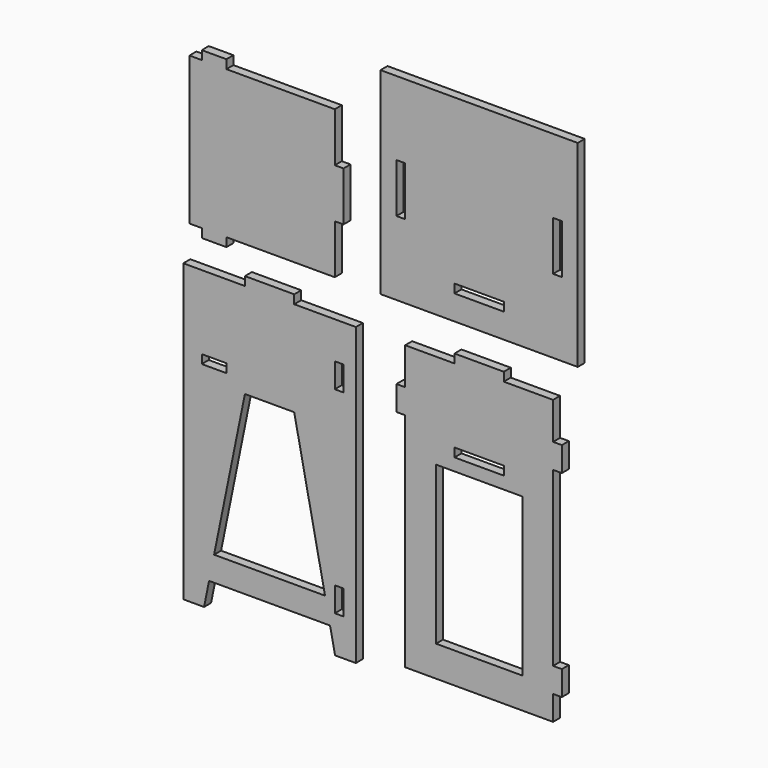
from build123d import *

# Parameters (mm, degrees)
F0_W     = 50.8
F0_H     = 18.034
F0_W_2   = 18.034
F0_H_2   = 101.6
F0_W_3   = 406.4
F0_H_3   = 406.4
F0_W_4   = 101.6
F0_W_5   = 177.8
F0_H_4   = 324.866
F0_H_5   = 50.8
F1_DEPTH = 18.034


with BuildPart() as f1:
    # F0 (on Front) → F1 (new body)
    with BuildSketch(Plane.XZ):
        Polygon((-88.9, 381), (134.366, 381), (134.366, 482.6), (134.366, 584.2), (134.366, 685.8), (-88.9, 685.8), (-139.7, 685.8), (-165.1, 685.8), (-165.1, 381), (-139.7, 381), align=None)
        with Locations((-114.3, 694.817)):
            Rectangle(F0_W, F0_H)
        with Locations((-114.3, 371.983)):
            Rectangle(F0_W, F0_H)
        with Locations((143.383, 533.4)):
            Rectangle(F0_W_2, F0_H_2)
        with Locations((431.8, 584.2)):
            Rectangle(F0_W_3, F0_H_3)
        with Locations((431.8, 440.817)):
            Rectangle(F0_W_4, F0_H, mode=Mode.SUBTRACT)
        with Locations((270.383, 584.2)):
            Rectangle(F0_W_2, F0_H_2, mode=Mode.SUBTRACT)
        with Locations((593.217, 584.2)):
            Rectangle(F0_W_2, F0_H_2, mode=Mode.SUBTRACT)
        Polygon((381, 304.8), (279.4, 304.8), (279.4, 228.6), (279.4, 177.8), (279.4, -177.8), (279.4, -228.6), (279.4, -279.4), (584.2, -279.4), (584.2, -228.6), (584.2, -177.8), (584.2, 177.8), (584.2, 228.6), (584.2, 304.8), (482.6, 304.8), align=None)
        with Locations((431.8, -53.467)):
            Rectangle(F0_W_5, F0_H_4, mode=Mode.SUBTRACT)
        with Locations((431.8, 143.383)):
            Rectangle(F0_W_4, F0_H, mode=Mode.SUBTRACT)
        with Locations((270.383, 203.2)):
            Rectangle(F0_W_2, F0_H_5)
        with Locations((431.8, 313.817)):
            Rectangle(F0_W_4, F0_H)
        with Locations((593.217, 203.2)):
            Rectangle(F0_W_2, F0_H_5)
        with Locations((593.217, -203.2)):
            Rectangle(F0_W_2, F0_H_5)
        Polygon((-50.8, 304.8), (-177.8, 304.8), (-177.8, -304.8), (-134.967209, -304.8), (-124.633605, -254), (-114.3, -254), (114.3, -254), (124.633605, -254), (134.967209, -304.8), (177.8, -304.8), (177.8, 304.8), (50.8, 304.8), align=None)
        Polygon((-114.3, -203.2), (-50.8, 108.966), (50.8, 108.966), (114.3, -203.2), align=None, mode=Mode.SUBTRACT)
        with Locations((143.383, -203.2)):
            Rectangle(F0_W_2, F0_H_5, mode=Mode.SUBTRACT)
        with Locations((-114.3, 143.383)):
            Rectangle(F0_W, F0_H, mode=Mode.SUBTRACT)
        with Locations((143.383, 203.2)):
            Rectangle(F0_W_2, F0_H_5, mode=Mode.SUBTRACT)
        with Locations((0, 313.817)):
            Rectangle(F0_W_4, F0_H)
    extrude(amount=F1_DEPTH)


solid = f1.part
